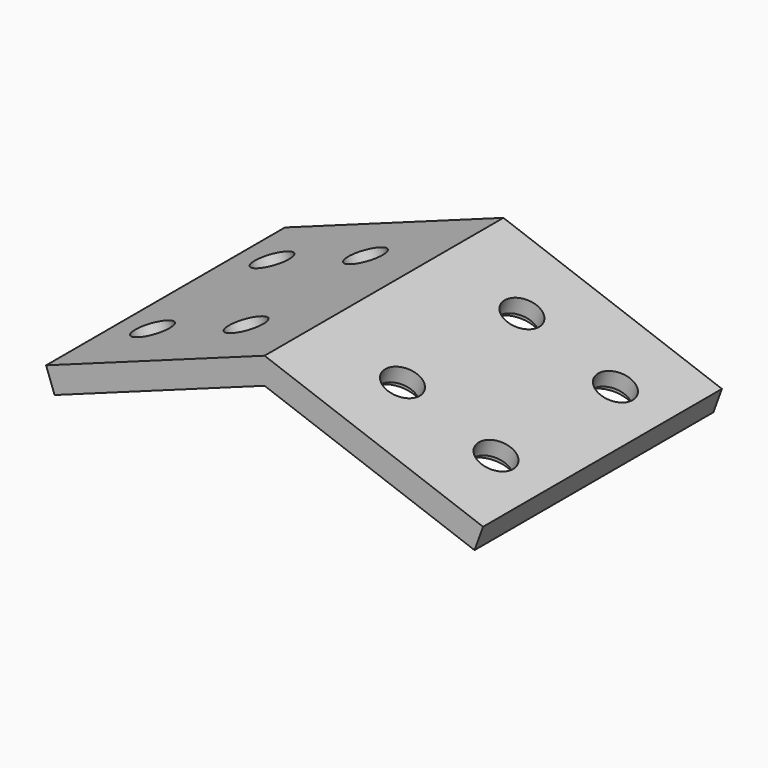
from build123d import *

# Parameters (mm, degrees)
F1_DEPTH = 36
F2_R     = 2.2
F3_DEPTH = 12.0112263536
F2_R_2   = 3
F4_DEPTH = 1
F5_R     = 2.2
F6_DEPTH = 12.0112263536
F5_R_2   = 3
F7_DEPTH = 1


with BuildPart() as f1:
    # F0 (on Front) → F1 (new body)
    with BuildSketch(Plane.XZ):
        Polygon((-12, -21.1726237282), (-38.344139459, -30.7611063387), (-37.3180790291, -33.580184201), (-12, -24.3651570457), (13.3180790291, -33.580184201), (14.344139459, -30.7611063387), align=None)
    extrude(amount=F1_DEPTH)

    # F2 (on face) → F3 (cut, through all)
    with BuildSketch(Plane(origin=(6.4270771872, 0, -17.658249445), x_dir=(0.9396926208, 0, 0.3420201433), z_dir=(0.3420201433, 0, -0.9396926208))):
        with Locations((-40.5526228989, 27)):
            Circle(F2_R)
        with Locations((-28.5526228989, 27)):
            Circle(F2_R)
        with Locations((-28.5526228989, 9)):
            Circle(F2_R)
        with Locations((-40.5526228989, 9)):
            Circle(F2_R)
    extrude(amount=-F3_DEPTH, mode=Mode.SUBTRACT)

    # F2 (on face) → F4 (cut)
    with BuildSketch(Plane(origin=(6.4270771872, 0, -17.658249445), x_dir=(0.9396926208, 0, 0.3420201433), z_dir=(0.3420201433, 0, -0.9396926208))):
        with Locations((-40.5526228989, 27)):
            Circle(F2_R_2)
        with Locations((-40.5526228989, 27)):
            Circle(F2_R, mode=Mode.SUBTRACT)
        with Locations((-40.5526228989, 9)):
            Circle(F2_R_2)
        with Locations((-40.5526228989, 9)):
            Circle(F2_R, mode=Mode.SUBTRACT)
        with Locations((-28.5526228989, 9)):
            Circle(F2_R_2)
        with Locations((-28.5526228989, 9)):
            Circle(F2_R, mode=Mode.SUBTRACT)
        with Locations((-28.5526228989, 27)):
            Circle(F2_R_2)
        with Locations((-28.5526228989, 27)):
            Circle(F2_R, mode=Mode.SUBTRACT)
    extrude(amount=-F4_DEPTH, mode=Mode.SUBTRACT)

    # F5 (on face) → F6 (cut, through all)
    with BuildSketch(Plane(origin=(-9.2345438698, 0, -25.3717007612), x_dir=(0.9396926208, 0, -0.3420201433), z_dir=(-0.3420201433, 0, -0.9396926208))):
        with Locations((6, 27)):
            Circle(F5_R)
        with Locations((18, 27)):
            Circle(F5_R)
        with Locations((6, 9)):
            Circle(F5_R)
        with Locations((18, 9)):
            Circle(F5_R)
    extrude(amount=-F6_DEPTH, mode=Mode.SUBTRACT)

    # F5 (on face) → F7 (cut)
    with BuildSketch(Plane(origin=(-9.2345438698, 0, -25.3717007612), x_dir=(0.9396926208, 0, -0.3420201433), z_dir=(-0.3420201433, 0, -0.9396926208))):
        with Locations((6, 27)):
            Circle(F5_R_2)
        with Locations((6, 27)):
            Circle(F5_R, mode=Mode.SUBTRACT)
        with Locations((18, 27)):
            Circle(F5_R_2)
        with Locations((18, 27)):
            Circle(F5_R, mode=Mode.SUBTRACT)
        with Locations((18, 9)):
            Circle(F5_R_2)
        with Locations((18, 9)):
            Circle(F5_R, mode=Mode.SUBTRACT)
        with Locations((6, 9)):
            Circle(F5_R_2)
        with Locations((6, 9)):
            Circle(F5_R, mode=Mode.SUBTRACT)
    extrude(amount=-F7_DEPTH, mode=Mode.SUBTRACT)


solid = f1.part
